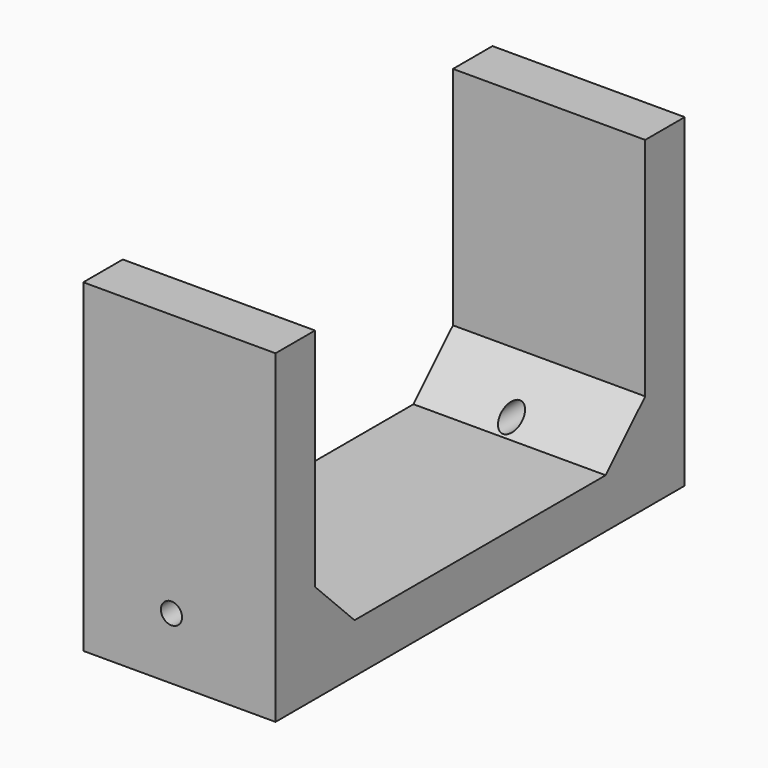
from build123d import *

# Parameters (mm, degrees)
SKETCH023_W     = 10.9
SKETCH023_H     = 29
PAD007_DEPTH    = 2.8
SKETCH024_W     = 10.9
SKETCH024_H     = 2.8
PAD008_DEPTH    = 15.6
CHAMFER_SIZE    = 2.8
SKETCH025_R     = 0.6
POCKET014_DEPTH = 29.001


with BuildPart() as part:
    # Sketch023 (on DatumPlane) → Pad007 (new body)
    with BuildSketch(Plane.XY.offset(7)):
        with Locations((19.95, 0)):
            Rectangle(SKETCH023_W, SKETCH023_H)
    extrude(amount=PAD007_DEPTH)

    # Sketch024 (on DatumPlane) → Pad008 (join)
    with BuildSketch(Plane.XY.offset(9.8)):
        with Locations((19.95, -13.1)):
            Rectangle(SKETCH024_W, SKETCH024_H)
        with Locations((19.95, 13.1)):
            Rectangle(SKETCH024_W, SKETCH024_H)
    extrude(amount=PAD008_DEPTH)

    # Chamfer
    chamfer_edges = [part.edges().sort_by_distance(p)[0] for p in [
        (19.95, 11.7, 9.8),
        (19.95, -11.7, 9.8),
    ]]
    chamfer(chamfer_edges, length=CHAMFER_SIZE)

    # Sketch025 (on DatumPlane) → Pocket014 (cut, through all)
    with BuildSketch(Plane.XZ.offset(14.5)):
        with Locations((19.5, 10.5)):
            Circle(SKETCH025_R)
    extrude(amount=-POCKET014_DEPTH, mode=Mode.SUBTRACT)


solid = part.part
